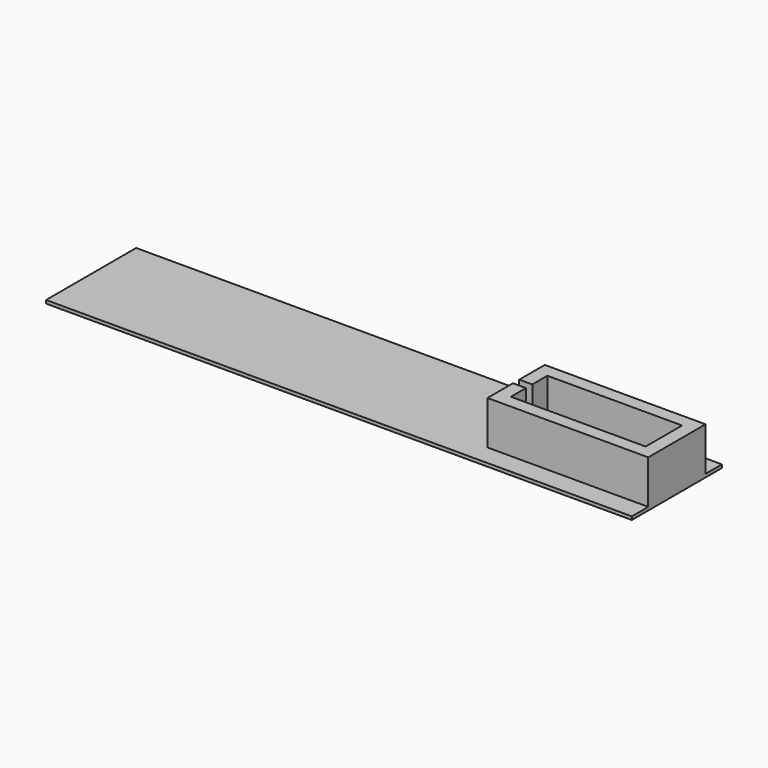
from build123d import *

# Parameters (mm, degrees)
PAD_DEPTH    = 6.7
SKETCH001_W  = 90
SKETCH001_H  = 17.3
PAD001_DEPTH = 0.5


with BuildPart() as part:
    # Sketch (on Sketch) → Pad (new body)
    with BuildSketch(Plane.XY):
        Polygon((-22.7, 3.5), (-2, 3.5), (-2, -3.5), (-22.7, -3.5), (-22.7, -0.6), (-24.7, -0.6), (-24.7, -5.5), (0, -5.5), (0, 5.5), (-24.7, 5.5), (-24.7, 0.6), (-22.7, 0.6), align=None)
    extrude(amount=PAD_DEPTH)

    # Sketch001 → Pad001 (join)
    with BuildSketch(Plane.XY):
        with Locations((-45, 0)):
            Rectangle(SKETCH001_W, SKETCH001_H)
    extrude(amount=-PAD001_DEPTH)


solid = part.part
